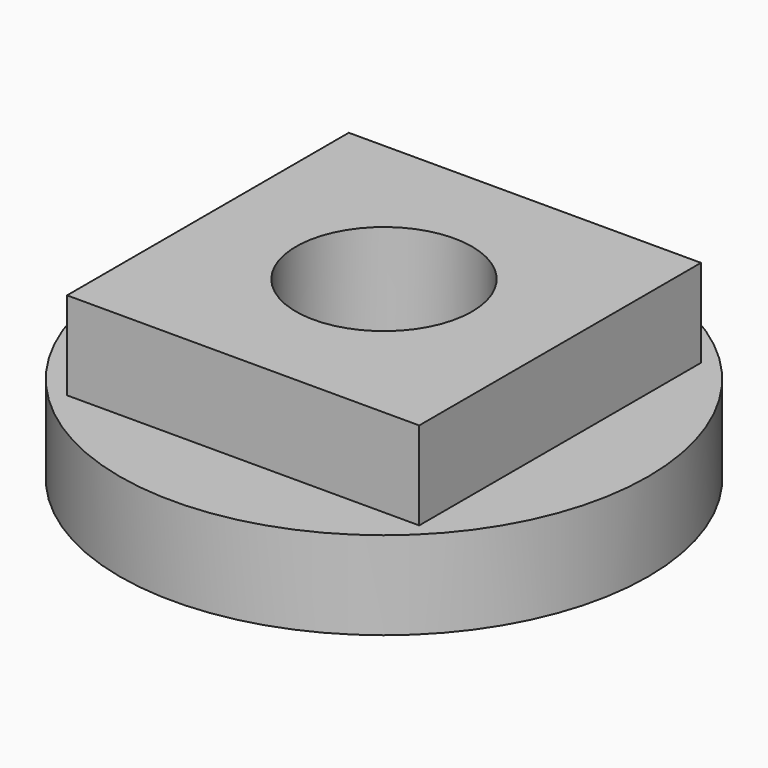
from build123d import *

# Parameters (mm, degrees)
F0_R     = 38.1
F0_W     = 50.8
F0_H     = 50.8
F0_R_2   = 12.7
F1_DEPTH = 12.7
F2_W     = 50.8
F2_H     = 50.8
F3_DEPTH = 25.4
F4_R     = 12.7
F5_DEPTH = 25.4


with BuildPart() as f1:
    # F0 (on Top) → F1 (new body)
    with BuildSketch(Plane.XY):
        Circle(F0_R)
        Rectangle(F0_W, F0_H, mode=Mode.SUBTRACT)
        Rectangle(F0_W, F0_H)
        Circle(F0_R_2, mode=Mode.SUBTRACT)
        Circle(F0_R_2)
    extrude(amount=F1_DEPTH)

    # F2 (on Top) → F3 (join)
    with BuildSketch(Plane.XY):
        Rectangle(F2_W, F2_H)
    extrude(amount=F3_DEPTH)

    # F4 (on Top) → F5 (cut)
    with BuildSketch(Plane.XY):
        Circle(F4_R)
    extrude(amount=F5_DEPTH, mode=Mode.SUBTRACT)


solid = f1.part
